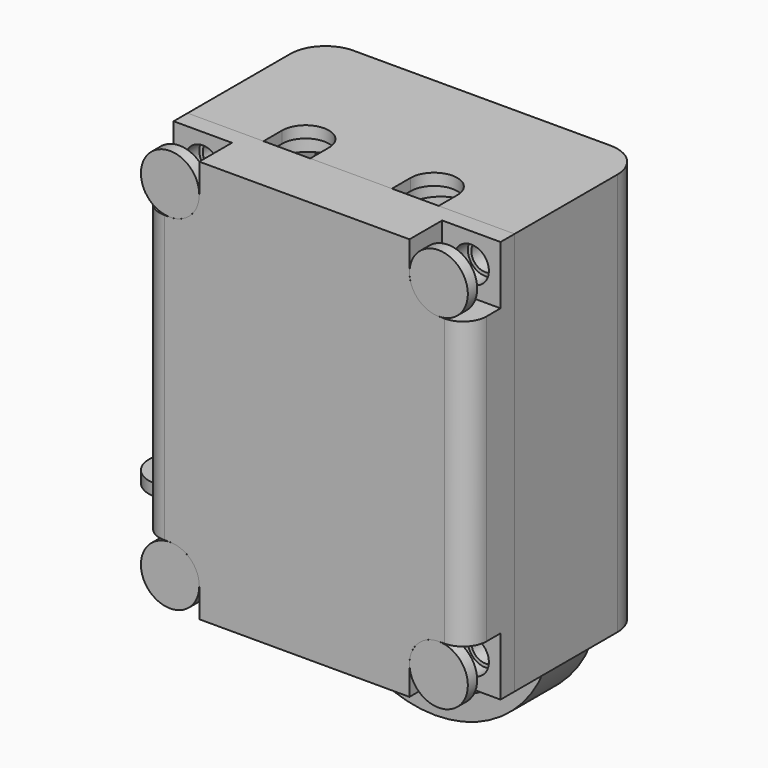
from build123d import *

# Parameters (mm, degrees)
BOX002_W          = 18
BOX002_H          = 1
BOX002_DEPTH      = 31.5
CYLINDER003_W     = 8
CYLINDER003_H     = 5
CYLINDER003_ANGLE = 180
CYLINDER002_W     = 10
CYLINDER002_H     = 5
CYLINDER002_ANGLE = 180
CYLINDER017_R     = 3.12
CYLINDER017_DEPTH = 2.75
CYLINDER018_R     = 3.75
CYLINDER018_DEPTH = 6
CYLINDER015_R     = 3.12
CYLINDER015_DEPTH = 2.75
CYLINDER016_R     = 3.75
CYLINDER016_DEPTH = 3.5
CYLINDER019_R     = 2.75
CYLINDER019_DEPTH = 2
CYLINDER020_R     = 2.75
CYLINDER020_DEPTH = 2
BOX020_W          = 18.5
BOX020_H          = 1
BOX020_DEPTH      = 18.5
CYLINDER023_R     = 2.75
CYLINDER023_DEPTH = 2
CYLINDER024_R     = 2.75
CYLINDER024_DEPTH = 2
BOX005_W          = 16
BOX005_H          = 4
BOX005_DEPTH      = 16
BOX004_W          = 20
BOX004_H          = 5
BOX004_DEPTH      = 20
CYLINDER026_R     = 2.5
CYLINDER026_DEPTH = 1
CYLINDER028_R     = 2.5
CYLINDER028_DEPTH = 1
BOX031_W          = 1.5
BOX031_H          = 4
BOX031_DEPTH      = 1
CYLINDER033_R     = 2.5
CYLINDER033_DEPTH = 1
CYLINDER036_R     = 2.5
CYLINDER036_DEPTH = 1
CYLINDER037_R     = 2.5
CYLINDER037_DEPTH = 1
CYLINDER038_R     = 1.2
CYLINDER038_DEPTH = 10
BOX030_W          = 4
BOX030_H          = 2
BOX030_DEPTH      = 1
BOX029_W          = 4
BOX029_H          = 2
BOX029_DEPTH      = 1
BOX028_W          = 5.5
BOX028_H          = 2.5
BOX028_DEPTH      = 1.5
CYLINDER032_R     = 2.75
CYLINDER032_DEPTH = 1.5
BOX027_W          = 5.5
BOX027_H          = 2.5
BOX027_DEPTH      = 1.5
CYLINDER031_R     = 2.75
CYLINDER031_DEPTH = 1.5
CYLINDER030_R     = 2
CYLINDER030_DEPTH = 1
CYLINDER029_R     = 2
CYLINDER029_DEPTH = 1
CYLINDER027_R     = 1.2
CYLINDER027_DEPTH = 10
CYLINDER_R        = 1.2
CYLINDER_DEPTH    = 10
BOX024_W          = 3.75
BOX024_H          = 4.1
BOX024_DEPTH      = 8.85
BOX025_W          = 1
BOX025_H          = 2.5
BOX025_DEPTH      = 6
BOX026_W          = 1
BOX026_H          = 2.75
BOX026_DEPTH      = 4
CYLINDER025_R     = 6.5
CYLINDER025_DEPTH = 30
BOX017_W          = 16.5
BOX017_H          = 6.5
BOX017_DEPTH      = 30
CYLINDER039_R     = 1.2
CYLINDER039_DEPTH = 10
BOX_W             = 28
BOX_H             = 14
BOX_DEPTH         = 34.5
FILLET_R          = 3
BOX034_W          = 5
BOX034_H          = 4
BOX034_DEPTH      = 5
FILLET006_R       = 2.5
BOX036_W          = 5
BOX036_H          = 4
BOX036_DEPTH      = 5
FILLET004_R       = 2.5
BOX035_W          = 5
BOX035_H          = 4
BOX035_DEPTH      = 5
FILLET003_R       = 2.5
CYLINDER041_R     = 1.5
CYLINDER041_DEPTH = 1.5
CYLINDER040_R     = 1.5
CYLINDER040_DEPTH = 1.5
BOX032_W          = 9.5
BOX032_H          = 3.5
BOX032_DEPTH      = 2
FILLET002_R       = 1
CYLINDER035_R     = 1.5
CYLINDER035_DEPTH = 1.5
CYLINDER034_R     = 1.5
CYLINDER034_DEPTH = 1.5
BOX023_W          = 16.5
BOX023_H          = 4
BOX023_DEPTH      = 28.5
BOX037_W          = 5
BOX037_H          = 4
BOX037_DEPTH      = 5
FILLET005_R       = 2.5
BOX033_W          = 28
BOX033_H          = 5
BOX033_DEPTH      = 34.5
FILLET001_R       = 2


with BuildPart() as cube002_inner_female_lip:
    # Box002 → Box002 (new body)
    with BuildSketch(Plane(origin=(-9, -7.5, -0.75), x_dir=(1, 0, 0), z_dir=(0, 0, 1))):
        with Locations((9, 0.5)):
            Rectangle(BOX002_W, BOX002_H)
    extrude(amount=BOX002_DEPTH)


with BuildPart() as cylinder003_lanyard_inner_female:
    # Cylinder003 → Cylinder003 (revolve)
    with BuildSketch(Plane(origin=(0, 2.5, -2), x_dir=(1, 0, 0), z_dir=(0, 0, 1))):
        with Locations((4, 2.5)):
            Rectangle(CYLINDER003_W, CYLINDER003_H)
    revolve(axis=Axis((0, 2.5, -2), (0, 1, 0)), revolution_arc=CYLINDER003_ANGLE)


with BuildPart() as cut:
    # Cylinder002 → Cylinder002 (revolve)
    with BuildSketch(Plane(origin=(0, 2.5, -2), x_dir=(1, 0, 0), z_dir=(0, 0, 1))):
        with Locations((5, 2.5)):
            Rectangle(CYLINDER002_W, CYLINDER002_H)
    revolve(axis=Axis((0, 2.5, -2), (0, 1, 0)), revolution_arc=CYLINDER002_ANGLE)

    # Cut: cut Cylinder003(lanyard_inner_female)
    add(cylinder003_lanyard_inner_female.part, mode=Mode.SUBTRACT)


with BuildPart() as cylinder017:
    # Cylinder017 → Cylinder017 (new body)
    with BuildSketch(Plane(origin=(-0.5, 1.75, 8), x_dir=(1, 0, 0), z_dir=(0, -1, 0))):
        Circle(CYLINDER017_R)
    extrude(amount=CYLINDER017_DEPTH)


with BuildPart() as cut069_magnet_holder_bottom:
    # Cylinder018 → Cylinder018 (new body)
    with BuildSketch(Plane(origin=(-0.5, 5, 8), x_dir=(1, 0, 0), z_dir=(0, -1, 0))):
        Circle(CYLINDER018_R)
    extrude(amount=CYLINDER018_DEPTH)

    # Cut069: cut Cylinder017
    add(cylinder017.part, mode=Mode.SUBTRACT)


with BuildPart() as cylinder_magnet_inner:
    # Cylinder015 → Cylinder015 (new body)
    with BuildSketch(Plane(origin=(-0.5, -1.5, 8), x_dir=(1, 0, 0), z_dir=(0, -1, 0))):
        Circle(CYLINDER015_R)
    extrude(amount=CYLINDER015_DEPTH)


with BuildPart() as cylinder_magnet_outer:
    # Cylinder016 → Cylinder016 (new body)
    with BuildSketch(Plane(origin=(-0.5, -1.5, 8), x_dir=(1, 0, 0), z_dir=(0, -1, 0))):
        Circle(CYLINDER016_R)
    extrude(amount=CYLINDER016_DEPTH)


with BuildPart() as cylinder001_para_hole_right_female_top:
    # Cylinder019 → Cylinder019 (new body)
    with BuildSketch(Plane(origin=(7.5, 0, 13.25), x_dir=(0, 0, -1), z_dir=(1, 0, 0))):
        Circle(CYLINDER019_R)
    extrude(amount=CYLINDER019_DEPTH)


with BuildPart() as cylinder_para_hole_right_female_bottom:
    # Cylinder020 → Cylinder020 (new body)
    with BuildSketch(Plane(origin=(7.5, 0, 2.75), x_dir=(0, 0, -1), z_dir=(1, 0, 0))):
        Circle(CYLINDER020_R)
    extrude(amount=CYLINDER020_DEPTH)


with BuildPart() as cube002_inner_male_lip:
    # Box020 → Box020 (new body)
    with BuildSketch(Plane(origin=(-9.75, -1, -1.25), x_dir=(1, 0, 0), z_dir=(0, 0, 1))):
        with Locations((9.25, 0.5)):
            Rectangle(BOX020_W, BOX020_H)
    extrude(amount=BOX020_DEPTH)


with BuildPart() as cylinder023:
    # Cylinder023 → Cylinder023 (new body)
    with BuildSketch(Plane(origin=(-10.5, 0, 13.25), x_dir=(0, 0, -1), z_dir=(1, 0, 0))):
        Circle(CYLINDER023_R)
    extrude(amount=CYLINDER023_DEPTH)


with BuildPart() as cylinder024:
    # Cylinder024 → Cylinder024 (new body)
    with BuildSketch(Plane(origin=(-10.5, 0, 2.75), x_dir=(0, 0, -1), z_dir=(1, 0, 0))):
        Circle(CYLINDER024_R)
    extrude(amount=CYLINDER024_DEPTH)


with BuildPart() as fusion:
    # Box005 → Box005 (new body)
    with BuildSketch(Plane(origin=(-8.5, -4, 0), x_dir=(1, 0, 0), z_dir=(0, 0, 1))):
        with Locations((8, 2)):
            Rectangle(BOX005_W, BOX005_H)
    extrude(amount=BOX005_DEPTH)

    # Fusion: union Cylinder001(para_hole_right_female_top), Cylinder(para_hole_right_female_bottom), Cube002(inner_male_lip), Cylinder023, Cylinder024
    add(cylinder001_para_hole_right_female_top.part)
    add(cylinder_para_hole_right_female_bottom.part)
    add(cube002_inner_male_lip.part)
    add(cylinder023.part)
    add(cylinder024.part)


with BuildPart() as cut074:
    # Box004 → Box004 (new body)
    with BuildSketch(Plane(origin=(-10.5, -5, -2), x_dir=(1, 0, 0), z_dir=(0, 0, 1))):
        with Locations((10, 2.5)):
            Rectangle(BOX004_W, BOX004_H)
    extrude(amount=BOX004_DEPTH)

    # Cut073: cut Fusion
    add(fusion.part, mode=Mode.SUBTRACT)

    # Fusion008: union Cylinder(magnet_outer)
    add(cylinder_magnet_outer.part)

    # Cut074: cut Cylinder(magnet_inner)
    add(cylinder_magnet_inner.part, mode=Mode.SUBTRACT)


with BuildPart() as cylinder_bolt_head_top_left:
    # Cylinder026 → Cylinder026 (new body)
    with BuildSketch(Plane(origin=(-11.5, -10.5, 30), x_dir=(1, 0, 0), z_dir=(0, -1, 0))):
        Circle(CYLINDER026_R)
    extrude(amount=CYLINDER026_DEPTH)


with BuildPart() as cylinder_bolt_head_bottom_right:
    # Cylinder028 → Cylinder028 (new body)
    with BuildSketch(Plane(origin=(11.5, -10.5, 0.5), x_dir=(1, 0, 0), z_dir=(0, -1, 0))):
        Circle(CYLINDER028_R)
    extrude(amount=CYLINDER028_DEPTH)


with BuildPart() as cube:
    # Box031 → Box031 (new body)
    with BuildSketch(Plane(origin=(-20.75, -1.5, 0), x_dir=(1, 0, 0), z_dir=(0, 0, 1))):
        with Locations((0.75, 2)):
            Rectangle(BOX031_W, BOX031_H)
    extrude(amount=BOX031_DEPTH)


with BuildPart() as cut076:
    # Cylinder033 → Cylinder033 (new body)
    with BuildSketch(Plane(origin=(-20, 0, 0), x_dir=(1, 0, 0), z_dir=(0, 0, 1))):
        Circle(CYLINDER033_R)
    extrude(amount=CYLINDER033_DEPTH)

    # Cut076: cut Cube
    add(cube.part, mode=Mode.SUBTRACT)


with BuildPart() as cylinder_bolt_head_bottom_left:
    # Cylinder036 → Cylinder036 (new body)
    with BuildSketch(Plane(origin=(-11.5, -10.5, 0.5), x_dir=(1, 0, 0), z_dir=(0, -1, 0))):
        Circle(CYLINDER036_R)
    extrude(amount=CYLINDER036_DEPTH)


with BuildPart() as cylinder_bolt_head_top_right:
    # Cylinder037 → Cylinder037 (new body)
    with BuildSketch(Plane(origin=(11.5, -10.5, 30), x_dir=(1, 0, 0), z_dir=(0, -1, 0))):
        Circle(CYLINDER037_R)
    extrude(amount=CYLINDER037_DEPTH)


with BuildPart() as cylinder_thread_top_right:
    # Cylinder038 → Cylinder038 (new body)
    with BuildSketch(Plane(origin=(11.5, 3.5, 30), x_dir=(1, 0, 0), z_dir=(0, -1, 0))):
        Circle(CYLINDER038_R)
    extrude(amount=CYLINDER038_DEPTH)


with BuildPart() as obj1:
    # Box030 → Box030 (new body)
    with BuildSketch(Plane(origin=(3.5, -6.5, 31.5), x_dir=(1, 0, 0), z_dir=(0, 0, 1))):
        with Locations((2, 1)):
            Rectangle(BOX030_W, BOX030_H)
    extrude(amount=BOX030_DEPTH)


with BuildPart() as obj2:
    # Box029 → Box029 (new body)
    with BuildSketch(Plane(origin=(-7.5, -6.5, 31.5), x_dir=(1, 0, 0), z_dir=(0, 0, 1))):
        with Locations((2, 1)):
            Rectangle(BOX029_W, BOX029_H)
    extrude(amount=BOX029_DEPTH)


with BuildPart() as obj3:
    # Box028 → Box028 (new body)
    with BuildSketch(Plane(origin=(2.75, -6.5, 30), x_dir=(1, 0, 0), z_dir=(0, 0, 1))):
        with Locations((2.75, 1.25)):
            Rectangle(BOX028_W, BOX028_H)
    extrude(amount=BOX028_DEPTH)


with BuildPart() as obj4:
    # Cylinder032 → Cylinder032 (new body)
    with BuildSketch(Plane(origin=(5.5, -3.75, 30), x_dir=(1, 0, 0), z_dir=(0, 0, 1))):
        Circle(CYLINDER032_R)
    extrude(amount=CYLINDER032_DEPTH)


with BuildPart() as obj5:
    # Box027 → Box027 (new body)
    with BuildSketch(Plane(origin=(-8.25, -6.5, 30), x_dir=(1, 0, 0), z_dir=(0, 0, 1))):
        with Locations((2.75, 1.25)):
            Rectangle(BOX027_W, BOX027_H)
    extrude(amount=BOX027_DEPTH)


with BuildPart() as obj6:
    # Cylinder031 → Cylinder031 (new body)
    with BuildSketch(Plane(origin=(-5.5, -4.25, 30), x_dir=(1, 0, 0), z_dir=(0, 0, 1))):
        Circle(CYLINDER031_R)
    extrude(amount=CYLINDER031_DEPTH)


with BuildPart() as obj7:
    # Cylinder030 → Cylinder030 (new body)
    with BuildSketch(Plane(origin=(5.5, -4.5, 31.5), x_dir=(1, 0, 0), z_dir=(0, 0, 1))):
        Circle(CYLINDER030_R)
    extrude(amount=CYLINDER030_DEPTH)


with BuildPart() as obj8:
    # Cylinder029 → Cylinder029 (new body)
    with BuildSketch(Plane(origin=(-5.5, -4.5, 31.5), x_dir=(1, 0, 0), z_dir=(0, 0, 1))):
        Circle(CYLINDER029_R)
    extrude(amount=CYLINDER029_DEPTH)


with BuildPart() as cylinder_thread_bottom_right:
    # Cylinder027 → Cylinder027 (new body)
    with BuildSketch(Plane(origin=(11.5, 3.5, 0.5), x_dir=(1, 0, 0), z_dir=(0, -1, 0))):
        Circle(CYLINDER027_R)
    extrude(amount=CYLINDER027_DEPTH)


with BuildPart() as cylinder_thread_top_left:
    # Cylinder → Cylinder (new body)
    with BuildSketch(Plane(origin=(-11.5, 3.5, 30), x_dir=(1, 0, 0), z_dir=(0, -1, 0))):
        Circle(CYLINDER_R)
    extrude(amount=CYLINDER_DEPTH)


with BuildPart() as cube_switch_body:
    # Box024 → Box024 (new body)
    with BuildSketch(Plane(origin=(-13, -6.5, 21.15), x_dir=(1, 0, 0), z_dir=(0, 0, 1))):
        with Locations((1.875, 2.05)):
            Rectangle(BOX024_W, BOX024_H)
    extrude(amount=BOX024_DEPTH)


with BuildPart() as cube_switch_pins:
    # Box025 → Box025 (new body)
    with BuildSketch(Plane(origin=(-9.25, -6.5, 22.57), x_dir=(1, 0, 0), z_dir=(0, 0, 1))):
        with Locations((0.5, 1.25)):
            Rectangle(BOX025_W, BOX025_H)
    extrude(amount=BOX025_DEPTH)


with BuildPart() as fusion009:
    # Box026 → Box026 (new body)
    with BuildSketch(Plane(origin=(-14, -6.5, 23.62), x_dir=(1, 0, 0), z_dir=(0, 0, 1))):
        with Locations((0.5, 1.375)):
            Rectangle(BOX026_W, BOX026_H)
    extrude(amount=BOX026_DEPTH)

    # Fusion009: union Cube(switch_body), Cube(switch_pins)
    add(cube_switch_body.part)
    add(cube_switch_pins.part)


with BuildPart() as fusion009_1:
    # Fusion009 placement: moved
    add(fusion009.part.moved(Location((0, 0, -4.5))))


with BuildPart() as cylinder_battery:
    # Cylinder025 → Cylinder025 (new body)
    with BuildSketch(Plane.XY):
        Circle(CYLINDER025_R)
    extrude(amount=CYLINDER025_DEPTH)


with BuildPart() as cube_inner_female:
    # Box017 → Box017 (new body)
    with BuildSketch(Plane(origin=(-8.25, -6.5, 0), x_dir=(1, 0, 0), z_dir=(0, 0, 1))):
        with Locations((8.25, 3.25)):
            Rectangle(BOX017_W, BOX017_H)
    extrude(amount=BOX017_DEPTH)


with BuildPart() as fusion012:
    # Cylinder039 → Cylinder039 (new body)
    with BuildSketch(Plane(origin=(-11.5, 3.5, 0.5), x_dir=(1, 0, 0), z_dir=(0, -1, 0))):
        Circle(CYLINDER039_R)
    extrude(amount=CYLINDER039_DEPTH)

    # Fusion012: union Cylinder(thread_top_right), obj1), obj2), obj3), obj4), obj5), obj6), obj7), obj8), Cylinder(thread_bottom)right), Cylinder(thread_top_left), Fusion009, Cylinder(battery), Cube(inner_female)
    add(cylinder_thread_top_right.part)
    add(obj1.part)
    add(obj2.part)
    add(obj3.part)
    add(obj4.part)
    add(obj5.part)
    add(obj6.part)
    add(obj7.part)
    add(obj8.part)
    add(cylinder_thread_bottom_right.part)
    add(cylinder_thread_top_left.part)
    add(fusion009_1.part)
    add(cylinder_battery.part)
    add(cube_inner_female.part)


with BuildPart() as cut077:
    # Box → Box (new body)
    with BuildSketch(Plane(origin=(-14, -6.5, -2), x_dir=(1, 0, 0), z_dir=(0, 0, 1))):
        with Locations((14, 7)):
            Rectangle(BOX_W, BOX_H)
    extrude(amount=BOX_DEPTH)

    # Fillet
    fillet_edges = [cut077.edges().sort_by_distance(p)[0] for p in [
        (-14, 7.5, 15.25),
        (14, 7.5, 15.25),
    ]]
    fillet(fillet_edges, radius=FILLET_R)

    # Cut077: cut Fusion012
    add(fusion012.part, mode=Mode.SUBTRACT)


with BuildPart() as fillet006:
    # Box034 → Box034 (new body)
    with BuildSketch(Plane(origin=(9, -12, -2), x_dir=(1, 0, 0), z_dir=(0, 0, 1))):
        with Locations((2.5, 2)):
            Rectangle(BOX034_W, BOX034_H)
    extrude(amount=BOX034_DEPTH)

    # Fillet006
    fillet006_edges = [fillet006.edges().sort_by_distance(p)[0] for p in [
        (9, -10, 3),
    ]]
    fillet(fillet006_edges, radius=FILLET006_R)


with BuildPart() as fillet004:
    # Box036 → Box036 (new body)
    with BuildSketch(Plane(origin=(9, -12, 27.5), x_dir=(1, 0, 0), z_dir=(0, 0, 1))):
        with Locations((2.5, 2)):
            Rectangle(BOX036_W, BOX036_H)
    extrude(amount=BOX036_DEPTH)

    # Fillet004
    fillet004_edges = [fillet004.edges().sort_by_distance(p)[0] for p in [
        (9, -10, 27.5),
    ]]
    fillet(fillet004_edges, radius=FILLET004_R)


with BuildPart() as fillet003:
    # Box035 → Box035 (new body)
    with BuildSketch(Plane(origin=(-14, -12, 27.5), x_dir=(1, 0, 0), z_dir=(0, 0, 1))):
        with Locations((2.5, 2)):
            Rectangle(BOX035_W, BOX035_H)
    extrude(amount=BOX035_DEPTH)

    # Fillet003
    fillet003_edges = [fillet003.edges().sort_by_distance(p)[0] for p in [
        (-9, -10, 27.5),
    ]]
    fillet(fillet003_edges, radius=FILLET003_R)


with BuildPart() as cylinder_bolt_clear_top_right:
    # Cylinder041 → Cylinder041 (new body)
    with BuildSketch(Plane(origin=(11.5, -6.5, 30), x_dir=(1, 0, 0), z_dir=(0, -1, 0))):
        Circle(CYLINDER041_R)
    extrude(amount=CYLINDER041_DEPTH)


with BuildPart() as cylinder_bolt_clear_bottom_left:
    # Cylinder040 → Cylinder040 (new body)
    with BuildSketch(Plane(origin=(-11.5, -6.5, 0.5), x_dir=(1, 0, 0), z_dir=(0, -1, 0))):
        Circle(CYLINDER040_R)
    extrude(amount=CYLINDER040_DEPTH)


with BuildPart() as fillet002:
    # Box032 → Box032 (new body)
    with BuildSketch(Plane(origin=(-4.75, -10, -2), x_dir=(1, 0, 0), z_dir=(0, 0, 1))):
        with Locations((4.75, 1.75)):
            Rectangle(BOX032_W, BOX032_H)
    extrude(amount=BOX032_DEPTH)

    # Fillet002
    fillet002_edges = [fillet002.edges().sort_by_distance(p)[0] for p in [
        (-4.75, -10, -1),
        (4.75, -10, -1),
    ]]
    fillet(fillet002_edges, radius=FILLET002_R)


with BuildPart() as cylinder_bolt_clear_bottom_right:
    # Cylinder035 → Cylinder035 (new body)
    with BuildSketch(Plane(origin=(11.5, -6.5, 0.5), x_dir=(1, 0, 0), z_dir=(0, -1, 0))):
        Circle(CYLINDER035_R)
    extrude(amount=CYLINDER035_DEPTH)


with BuildPart() as cylinder_bolt_clear_top_left:
    # Cylinder034 → Cylinder034 (new body)
    with BuildSketch(Plane(origin=(-11.5, -6.5, 30), x_dir=(1, 0, 0), z_dir=(0, -1, 0))):
        Circle(CYLINDER034_R)
    extrude(amount=CYLINDER034_DEPTH)


with BuildPart() as cube_pcb:
    # Box023 → Box023 (new body)
    with BuildSketch(Plane(origin=(-8.25, -10.5, 0), x_dir=(1, 0, 0), z_dir=(0, 0, 1))):
        with Locations((8.25, 2)):
            Rectangle(BOX023_W, BOX023_H)
    extrude(amount=BOX023_DEPTH)


with BuildPart() as fusion013:
    # Box037 → Box037 (new body)
    with BuildSketch(Plane(origin=(-14, -12, -2), x_dir=(1, 0, 0), z_dir=(0, 0, 1))):
        with Locations((2.5, 2)):
            Rectangle(BOX037_W, BOX037_H)
    extrude(amount=BOX037_DEPTH)

    # Fillet005
    fillet005_edges = [fusion013.edges().sort_by_distance(p)[0] for p in [
        (-9, -10, 3),
    ]]
    fillet(fillet005_edges, radius=FILLET005_R)

    # Fusion013: union Fillet006, Fillet004, Fillet003, Cylinder(bolt_clear_top_right), Cylinder(bolt_clear_bottom_left), Fillet002, Cylinder(bolt_clear_bottom_right), Cylinder(bolt_clear_top_left), Cube(pcb)
    add(fillet006.part)
    add(fillet004.part)
    add(fillet003.part)
    add(cylinder_bolt_clear_top_right.part)
    add(cylinder_bolt_clear_bottom_left.part)
    add(fillet002.part)
    add(cylinder_bolt_clear_bottom_right.part)
    add(cylinder_bolt_clear_top_left.part)
    add(cube_pcb.part)


with BuildPart() as cut078_lid:
    # Box033 → Box033 (new body)
    with BuildSketch(Plane(origin=(-14, -11.5, -2), x_dir=(1, 0, 0), z_dir=(0, 0, 1))):
        with Locations((14, 2.5)):
            Rectangle(BOX033_W, BOX033_H)
    extrude(amount=BOX033_DEPTH)

    # Fillet001
    fillet001_edges = [cut078_lid.edges().sort_by_distance(p)[0] for p in [
        (-14, -11.5, 15.25),
        (14, -11.5, 15.25),
    ]]
    fillet(fillet001_edges, radius=FILLET001_R)

    # Cut078: cut Fusion013
    add(fusion013.part, mode=Mode.SUBTRACT)


solid = Compound([cube002_inner_female_lip.part, cut.part, cut069_magnet_holder_bottom.part, cut074.part, cylinder_bolt_head_top_left.part, cylinder_bolt_head_bottom_right.part, cut076.part, cylinder_bolt_head_bottom_left.part, cylinder_bolt_head_top_right.part, cut077.part, cut078_lid.part])
